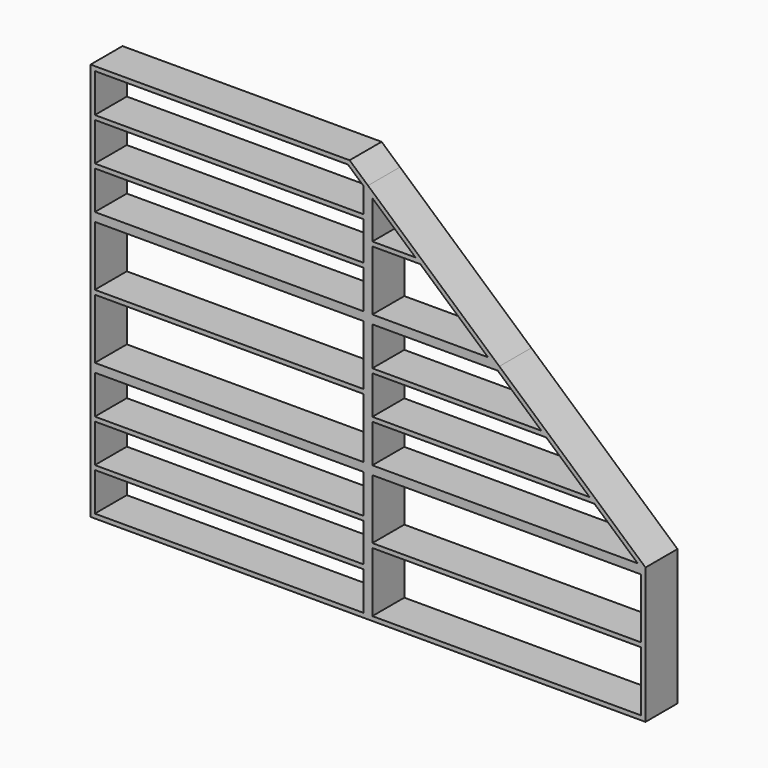
from build123d import *

# Parameters (mm, degrees)
F1_W     = 1735
F1_H     = 830
F1_W_2   = 1681
F1_H_2   = 240
F1_H_3   = 242
F1_H_4   = 375
F1_H_5   = 374
F2_DEPTH = 250


with BuildPart() as f2:
    # F1 (on face) → F2 (new body)
    with BuildSketch(Plane.XZ):
        with Locations((867.5, 415)):
            Rectangle(F1_W, F1_H)
        with Locations((867.5, 147)):
            Rectangle(F1_W_2, F1_H_2, mode=Mode.SUBTRACT)
        with Locations((867.5, 414)):
            Rectangle(F1_W_2, F1_H_2, mode=Mode.SUBTRACT)
        with Locations((867.5, 682)):
            Rectangle(F1_W_2, F1_H_3, mode=Mode.SUBTRACT)
        with Locations((2602.5, 415)):
            Rectangle(F1_W, F1_H)
        with Locations((2602.5, 214.5)):
            Rectangle(F1_W_2, F1_H_4, mode=Mode.SUBTRACT)
        with Locations((2602.5, 616)):
            Rectangle(F1_W_2, F1_H_5, mode=Mode.SUBTRACT)
        with Locations((867.5, 1245)):
            Rectangle(F1_W, F1_H)
        with Locations((867.5, 1044.5)):
            Rectangle(F1_W_2, F1_H_4, mode=Mode.SUBTRACT)
        with Locations((867.5, 1446)):
            Rectangle(F1_W_2, F1_H_5, mode=Mode.SUBTRACT)
        Polygon((1735, 1660), (1735, 830), (3470, 830), (3470, 850), (2556.280488, 1660), align=None)
        Polygon((3421.401716, 857), (1762, 857), (1762, 1097), (3150.670008, 1097), align=None, mode=Mode.SUBTRACT)
        Polygon((1762, 1124), (1762, 1364), (2849.480984, 1364), (3120.212691, 1124), align=None, mode=Mode.SUBTRACT)
        Polygon((1762, 1391), (1762, 1633), (2546.035862, 1633), (2819.023667, 1391), align=None, mode=Mode.SUBTRACT)
        Polygon((0, 2490), (0, 1660), (1735, 1660), (1735, 2388.054054), (1620, 2490), align=None)
        with Locations((867.5, 1807)):
            Rectangle(F1_W_2, F1_H_2, mode=Mode.SUBTRACT)
        with Locations((867.5, 2074)):
            Rectangle(F1_W_2, F1_H_2, mode=Mode.SUBTRACT)
        Polygon((27, 2221), (27, 2463), (1609.755374, 2463), (1708, 2375.907467), (1708, 2221), align=None, mode=Mode.SUBTRACT)
        Polygon((1735, 2388.054054), (1735, 1660), (2556.280488, 1660), align=None)
        Polygon((2485.121228, 1687), (1762, 1687), (1762, 2062), (2062.102935, 2062), align=None, mode=Mode.SUBTRACT)
        Polygon((1762, 2089), (1762, 2328.037196), (2031.645618, 2089), align=None, mode=Mode.SUBTRACT)
    extrude(amount=F2_DEPTH)


solid = f2.part
